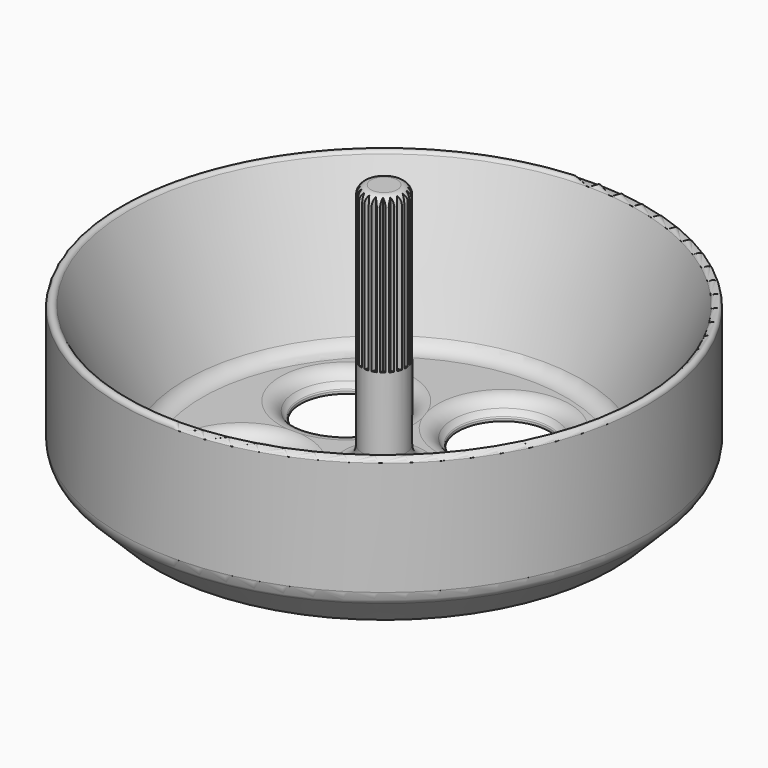
from build123d import *

# Parameters (mm, degrees)
F3_COUNT = 5
F6_START = 15.875
F6_DEPTH = 26.28042


with BuildPart() as f1:
    # F0 (on Front) → F1 (revolve)
    with BuildSketch(Plane.XZ):
        with BuildLine():
            Line((0, 38.1), (0, 2.54))
            Line((0, 2.54), (2.54, 0))
            Line((2.54, 0), (9.525, 0))
            Line((9.525, 0), (9.525, 0.3621643562))
            ThreePointArc((9.525, 0.3621643562), (9.4995142258, 0.4730573164), (9.4281712707, 0.5616967888))
            ThreePointArc((9.4281712707, 0.5616967888), (9.0763797316, 0.8960367664), (8.7923076923, 1.2895384615))
            ThreePointArc((8.7923076923, 1.2895384615), (7.8641929034, 2.205337581), (6.604, 2.54))
            Line((6.604, 2.54), (5.715, 2.54))
            ThreePointArc((5.715, 2.54), (3.9189487758, 3.2839487758), (3.175, 5.08))
            Line((3.175, 5.08), (3.175, 36.83))
            ThreePointArc((3.175, 36.83), (2.8030256121, 37.7280256121), (1.905, 38.1))
            Line((1.905, 38.1), (0, 38.1))
        make_face()
        with BuildLine():
            Line((9.525, 0.3621643562), (9.525, 0))
            Line((9.525, 0), (16.129, 0))
            Line((16.129, 0), (16.129, 2.54))
            Line((16.129, 2.54), (6.604, 2.54))
            ThreePointArc((6.604, 2.54), (7.8641929034, 2.205337581), (8.7923076923, 1.2895384615))
            ThreePointArc((8.7923076923, 1.2895384615), (9.0763797316, 0.8960367664), (9.4281712707, 0.5616967888))
            ThreePointArc((9.4281712707, 0.5616967888), (9.4995142258, 0.4730573164), (9.525, 0.3621643562))
        make_face()
        with BuildLine():
            Line((16.129, 2.54), (16.129, 0))
            Line((16.129, 0), (22.733, 0))
            Line((22.733, 0), (22.733, 0.3621643562))
            ThreePointArc((22.733, 0.3621643562), (22.7584857742, 0.4730573164), (22.8298287293, 0.5616967888))
            ThreePointArc((22.8298287293, 0.5616967888), (23.1816202684, 0.8960367664), (23.4656923077, 1.2895384615))
            ThreePointArc((23.4656923077, 1.2895384615), (24.3938070966, 2.205337581), (25.654, 2.54))
            Line((25.654, 2.54), (16.129, 2.54))
        make_face()
        with BuildLine():
            Line((22.733, 0.3621643562), (22.733, 0))
            Line((22.733, 0), (33.02, 0))
            Line((33.02, 0), (37.3560512242, 4.3360512242))
            ThreePointArc((37.3560512242, 4.3360512242), (37.9066540126, 5.1600865302), (38.1, 6.1321024484))
            Line((38.1, 6.1321024484), (38.1, 22.5593041456))
            ThreePointArc((38.1, 22.5593041456), (37.6035270349, 23.1790099312), (36.8904401241, 22.8296852637))
            Line((36.8904401241, 22.8296852637), (28.6082449144, 4.0548393603))
            ThreePointArc((28.6082449144, 4.0548393603), (27.6713437393, 2.9521480286), (26.2843159863, 2.54))
            Line((26.2843159863, 2.54), (25.654, 2.54))
            ThreePointArc((25.654, 2.54), (24.3938070966, 2.205337581), (23.4656923077, 1.2895384615))
            ThreePointArc((23.4656923077, 1.2895384615), (23.1816202684, 0.8960367664), (22.8298287293, 0.5616967888))
            ThreePointArc((22.8298287293, 0.5616967888), (22.7584857742, 0.4730573164), (22.733, 0.3621643562))
        make_face()
    revolve(axis=Axis((0, 0, 19.05), (0, 0, 1)))


with BuildPart() as f2:
    # F0 (on Front) → F2 (revolve)
    with BuildSketch(Plane.XZ):
        with BuildLine():
            Line((9.525, 0.3621643562), (9.525, 0))
            Line((9.525, 0), (16.129, 0))
            Line((16.129, 0), (16.129, 2.54))
            Line((16.129, 2.54), (6.604, 2.54))
            ThreePointArc((6.604, 2.54), (7.8641929034, 2.205337581), (8.7923076923, 1.2895384615))
            ThreePointArc((8.7923076923, 1.2895384615), (9.0763797316, 0.8960367664), (9.4281712707, 0.5616967888))
            ThreePointArc((9.4281712707, 0.5616967888), (9.4995142258, 0.4730573164), (9.525, 0.3621643562))
        make_face()
    revolve(axis=Axis((16.129, 0, 5.4818876088), (0, 0, 1)))


with BuildPart() as f3_1:
    # F3: instance of F2
    add(f2.part.rotate(Axis((0, 0, 19.05), (0, 0, 1)), 1 * 360 / F3_COUNT))


with BuildPart() as f3_2:
    # F3: instance of F2
    add(f2.part.rotate(Axis((0, 0, 19.05), (0, 0, 1)), 2 * 360 / F3_COUNT))


with BuildPart() as f3_3:
    # F3: instance of F2
    add(f2.part.rotate(Axis((0, 0, 19.05), (0, 0, 1)), 3 * 360 / F3_COUNT))


with BuildPart() as f3_4:
    # F3: instance of F2
    add(f2.part.rotate(Axis((0, 0, 19.05), (0, 0, 1)), 4 * 360 / F3_COUNT))


with BuildPart() as f1_1:
    add(f1.part)

    # F4: cut F2, F3_1, F3_2, F3_3, F3_4
    add(f2.part, mode=Mode.SUBTRACT)
    add(f3_1.part, mode=Mode.SUBTRACT)
    add(f3_2.part, mode=Mode.SUBTRACT)
    add(f3_3.part, mode=Mode.SUBTRACT)
    add(f3_4.part, mode=Mode.SUBTRACT)


with BuildPart() as f6:
    # F5 (on Top) → F6 (new body)
    with BuildSketch(Plane.XY.offset(F6_START)):
        with BuildLine():
            Line((-2.1550820953, 1.5657587936), (-2.3745431524, 2.1076455626))
            ThreePointArc((-2.3745431524, 2.1076455626), (-2.5686289571, 1.866218176), (-2.7382642343, 1.6070264413))
            Line((-2.7382642343, 1.6070264413), (-2.1550820953, 1.5657587936))
        make_face()
    extrude(amount=F6_DEPTH)


with BuildPart() as f6b:
    # F5 (on Top) → F6, piece 2 (new body)
    with BuildSketch(Plane.XY.offset(F6_START)):
        with BuildLine():
            Line((-2.5334509462, 0.8231681119), (-2.9096230352, 1.2707158584))
            ThreePointArc((-2.9096230352, 1.2707158584), (-3.0196044392, 0.9811289571), (-3.1008425242, 0.6822027854))
            Line((-3.1008425242, 0.6822027854), (-2.5334509462, 0.8231681119))
        make_face()
    extrude(amount=F6_DEPTH)


with BuildPart() as f6c:
    # F5 (on Top) → F6, piece 3 (new body)
    with BuildSketch(Plane.XY.offset(F6_START)):
        with BuildLine():
            Line((-2.6638279669, 0), (-3.1598887429, 0.3093996324))
            ThreePointArc((-3.1598887429, 0.3093996324), (-3.175, 0), (-3.1598887429, -0.3093996324))
            Line((-3.1598887429, -0.3093996324), (-2.6638279669, 0))
        make_face()
    extrude(amount=F6_DEPTH)


with BuildPart() as f6d:
    # F5 (on Top) → F6, piece 4 (new body)
    with BuildSketch(Plane.XY.offset(F6_START)):
        with BuildLine():
            ThreePointArc((-3.1008425242, -0.6822027854), (-3.0196044392, -0.9811289571), (-2.9096230352, -1.2707158584))
            Line((-2.9096230352, -1.2707158584), (-2.5334509462, -0.8231681119))
            Line((-2.5334509462, -0.8231681119), (-3.1008425242, -0.6822027854))
        make_face()
    extrude(amount=F6_DEPTH)


with BuildPart() as f6e:
    # F5 (on Top) → F6, piece 5 (new body)
    with BuildSketch(Plane.XY.offset(F6_START)):
        with BuildLine():
            ThreePointArc((-2.7382642343, -1.6070264413), (-2.5686289571, -1.866218176), (-2.3745431524, -2.1076455626))
            Line((-2.3745431524, -2.1076455626), (-2.1550820953, -1.5657587936))
            Line((-2.1550820953, -1.5657587936), (-2.7382642343, -1.6070264413))
        make_face()
    extrude(amount=F6_DEPTH)


with BuildPart() as f6f:
    # F5 (on Top) → F6, piece 6 (new body)
    with BuildSketch(Plane.XY.offset(F6_START)):
        with BuildLine():
            ThreePointArc((-2.1076455626, -2.3745431524), (-1.866218176, -2.5686289571), (-1.6070264413, -2.7382642343))
            Line((-1.6070264413, -2.7382642343), (-1.5657587936, -2.1550820953))
            Line((-1.5657587936, -2.1550820953), (-2.1076455626, -2.3745431524))
        make_face()
    extrude(amount=F6_DEPTH)


with BuildPart() as f6g:
    # F5 (on Top) → F6, piece 7 (new body)
    with BuildSketch(Plane.XY.offset(F6_START)):
        with BuildLine():
            ThreePointArc((-1.2707158584, -2.9096230352), (-0.9811289571, -3.0196044392), (-0.6822027854, -3.1008425242))
            Line((-0.6822027854, -3.1008425242), (-0.8231681119, -2.5334509462))
            Line((-0.8231681119, -2.5334509462), (-1.2707158584, -2.9096230352))
        make_face()
    extrude(amount=F6_DEPTH)


with BuildPart() as f6h:
    # F5 (on Top) → F6, piece 8 (new body)
    with BuildSketch(Plane.XY.offset(F6_START)):
        with BuildLine():
            ThreePointArc((-0.3093996324, -3.1598887429), (0, -3.175), (0.3093996324, -3.1598887429))
            Line((0.3093996324, -3.1598887429), (0, -2.6638279669))
            Line((0, -2.6638279669), (-0.3093996324, -3.1598887429))
        make_face()
    extrude(amount=F6_DEPTH)


with BuildPart() as f6i:
    # F5 (on Top) → F6, piece 9 (new body)
    with BuildSketch(Plane.XY.offset(F6_START)):
        with BuildLine():
            ThreePointArc((0.6822027854, -3.1008425242), (0.9811289571, -3.0196044392), (1.2707158584, -2.9096230352))
            Line((1.2707158584, -2.9096230352), (0.8231681119, -2.5334509462))
            Line((0.8231681119, -2.5334509462), (0.6822027854, -3.1008425242))
        make_face()
    extrude(amount=F6_DEPTH)


with BuildPart() as f6j:
    # F5 (on Top) → F6, piece 10 (new body)
    with BuildSketch(Plane.XY.offset(F6_START)):
        with BuildLine():
            ThreePointArc((1.6070264413, -2.7382642343), (1.866218176, -2.5686289571), (2.1076455626, -2.3745431524))
            Line((2.1076455626, -2.3745431524), (1.5657587936, -2.1550820953))
            Line((1.5657587936, -2.1550820953), (1.6070264413, -2.7382642343))
        make_face()
    extrude(amount=F6_DEPTH)


with BuildPart() as f6k:
    # F5 (on Top) → F6, piece 11 (new body)
    with BuildSketch(Plane.XY.offset(F6_START)):
        with BuildLine():
            ThreePointArc((2.3745431524, -2.1076455626), (2.5686289571, -1.866218176), (2.7382642343, -1.6070264413))
            Line((2.7382642343, -1.6070264413), (2.1550820953, -1.5657587936))
            Line((2.1550820953, -1.5657587936), (2.3745431524, -2.1076455626))
        make_face()
    extrude(amount=F6_DEPTH)


with BuildPart() as f6l:
    # F5 (on Top) → F6, piece 12 (new body)
    with BuildSketch(Plane.XY.offset(F6_START)):
        with BuildLine():
            ThreePointArc((2.9096230352, -1.2707158584), (3.0196044392, -0.9811289571), (3.1008425242, -0.6822027854))
            Line((3.1008425242, -0.6822027854), (2.5334509462, -0.8231681119))
            Line((2.5334509462, -0.8231681119), (2.9096230352, -1.2707158584))
        make_face()
    extrude(amount=F6_DEPTH)


with BuildPart() as f6m:
    # F5 (on Top) → F6, piece 13 (new body)
    with BuildSketch(Plane.XY.offset(F6_START)):
        with BuildLine():
            ThreePointArc((3.1598887429, -0.3093996324), (3.1712199355, -0.1548842169), (3.175, 0))
            ThreePointArc((3.175, 0), (3.1712199355, 0.1548842169), (3.1598887429, 0.3093996324))
            Line((3.1598887429, 0.3093996324), (2.6638279669, 0))
            Line((2.6638279669, 0), (3.1598887429, -0.3093996324))
        make_face()
    extrude(amount=F6_DEPTH)


with BuildPart() as f6n:
    # F5 (on Top) → F6, piece 14 (new body)
    with BuildSketch(Plane.XY.offset(F6_START)):
        with BuildLine():
            Line((2.5334509462, 0.8231681119), (3.1008425242, 0.6822027854))
            ThreePointArc((3.1008425242, 0.6822027854), (3.0196044392, 0.9811289571), (2.9096230352, 1.2707158584))
            Line((2.9096230352, 1.2707158584), (2.5334509462, 0.8231681119))
        make_face()
    extrude(amount=F6_DEPTH)


with BuildPart() as f6o:
    # F5 (on Top) → F6, piece 15 (new body)
    with BuildSketch(Plane.XY.offset(F6_START)):
        with BuildLine():
            Line((2.1550820953, 1.5657587936), (2.7382642343, 1.6070264413))
            ThreePointArc((2.7382642343, 1.6070264413), (2.5686289571, 1.866218176), (2.3745431524, 2.1076455626))
            Line((2.3745431524, 2.1076455626), (2.1550820953, 1.5657587936))
        make_face()
    extrude(amount=F6_DEPTH)


with BuildPart() as f6p:
    # F5 (on Top) → F6, piece 16 (new body)
    with BuildSketch(Plane.XY.offset(F6_START)):
        with BuildLine():
            Line((1.5657587936, 2.1550820953), (2.1076455626, 2.3745431524))
            ThreePointArc((2.1076455626, 2.3745431524), (1.866218176, 2.5686289571), (1.6070264413, 2.7382642343))
            Line((1.6070264413, 2.7382642343), (1.5657587936, 2.1550820953))
        make_face()
    extrude(amount=F6_DEPTH)


with BuildPart() as f6q:
    # F5 (on Top) → F6, piece 17 (new body)
    with BuildSketch(Plane.XY.offset(F6_START)):
        with BuildLine():
            Line((0.8231681119, 2.5334509462), (1.2707158584, 2.9096230352))
            ThreePointArc((1.2707158584, 2.9096230352), (0.9811289571, 3.0196044392), (0.6822027854, 3.1008425242))
            Line((0.6822027854, 3.1008425242), (0.8231681119, 2.5334509462))
        make_face()
    extrude(amount=F6_DEPTH)


with BuildPart() as f6r:
    # F5 (on Top) → F6, piece 18 (new body)
    with BuildSketch(Plane.XY.offset(F6_START)):
        with BuildLine():
            Line((0, 2.6638279669), (0.3093996324, 3.1598887429))
            ThreePointArc((0.3093996324, 3.1598887429), (0, 3.175), (-0.3093996324, 3.1598887429))
            Line((-0.3093996324, 3.1598887429), (0, 2.6638279669))
        make_face()
    extrude(amount=F6_DEPTH)


with BuildPart() as f6s:
    # F5 (on Top) → F6, piece 19 (new body)
    with BuildSketch(Plane.XY.offset(F6_START)):
        with BuildLine():
            Line((-0.8231681119, 2.5334509462), (-0.6822027854, 3.1008425242))
            ThreePointArc((-0.6822027854, 3.1008425242), (-0.9811289571, 3.0196044392), (-1.2707158584, 2.9096230352))
            Line((-1.2707158584, 2.9096230352), (-0.8231681119, 2.5334509462))
        make_face()
    extrude(amount=F6_DEPTH)


with BuildPart() as f6t:
    # F5 (on Top) → F6, piece 20 (new body)
    with BuildSketch(Plane.XY.offset(F6_START)):
        with BuildLine():
            Line((-1.5657587936, 2.1550820953), (-1.6070264413, 2.7382642343))
            ThreePointArc((-1.6070264413, 2.7382642343), (-1.866218176, 2.5686289571), (-2.1076455626, 2.3745431524))
            Line((-2.1076455626, 2.3745431524), (-1.5657587936, 2.1550820953))
        make_face()
    extrude(amount=F6_DEPTH)


with BuildPart() as f1_2:
    add(f1_1.part)

    # F7: cut F6n, F6o, F6p, F6q, F6r, F6s, F6t, F6, F6b, F6c, F6d, F6e, F6f, F6g, F6h, F6i, F6j, F6k, F6l, F6m
    add(f6n.part, mode=Mode.SUBTRACT)
    add(f6o.part, mode=Mode.SUBTRACT)
    add(f6p.part, mode=Mode.SUBTRACT)
    add(f6q.part, mode=Mode.SUBTRACT)
    add(f6r.part, mode=Mode.SUBTRACT)
    add(f6s.part, mode=Mode.SUBTRACT)
    add(f6t.part, mode=Mode.SUBTRACT)
    add(f6.part, mode=Mode.SUBTRACT)
    add(f6b.part, mode=Mode.SUBTRACT)
    add(f6c.part, mode=Mode.SUBTRACT)
    add(f6d.part, mode=Mode.SUBTRACT)
    add(f6e.part, mode=Mode.SUBTRACT)
    add(f6f.part, mode=Mode.SUBTRACT)
    add(f6g.part, mode=Mode.SUBTRACT)
    add(f6h.part, mode=Mode.SUBTRACT)
    add(f6i.part, mode=Mode.SUBTRACT)
    add(f6j.part, mode=Mode.SUBTRACT)
    add(f6k.part, mode=Mode.SUBTRACT)
    add(f6l.part, mode=Mode.SUBTRACT)
    add(f6m.part, mode=Mode.SUBTRACT)


solid = f1_2.part
